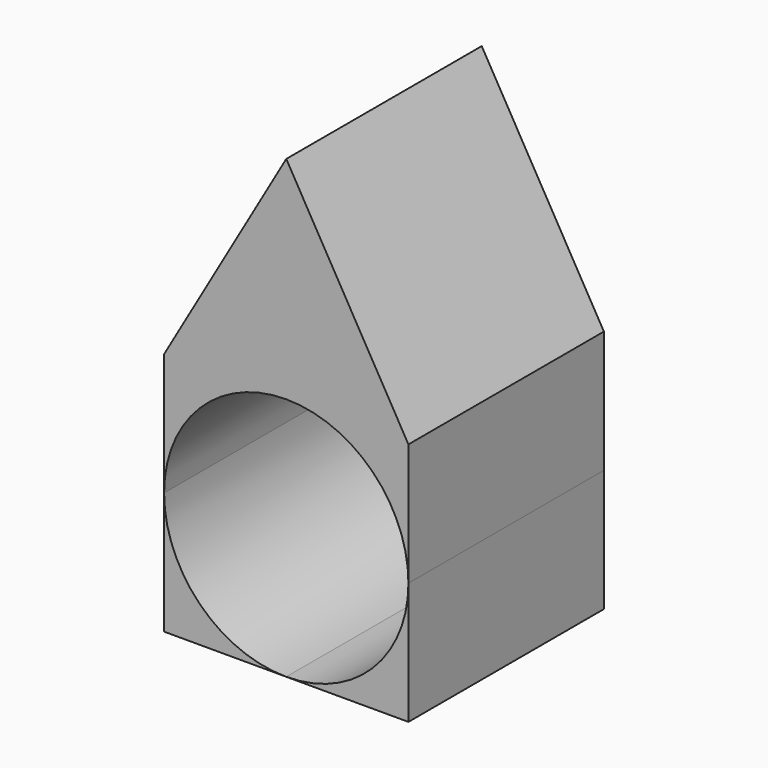
from build123d import *

# Parameters (mm, degrees)
F1_DEPTH = 79.756


with BuildPart() as f1:
    # F0 (on Front) → F1 (new body)
    with BuildSketch(Plane.XZ):
        with BuildLine():
            ThreePointArc((-39.878, -1.724e-07), (-28.1980042811, 28.1980041592), (0, 39.878))
            Line((0, 39.878), (-39.878, 39.878))
            Line((-39.878, 39.878), (-39.878, -1.724e-07))
        make_face()
        Polygon((0, 39.878), (39.878, 39.878), (0, 108.9487221042), (-39.878, 39.878), align=None)
        with BuildLine():
            Line((39.878, 0), (39.878, 39.878))
            Line((39.878, 39.878), (0, 39.878))
            ThreePointArc((0, 39.878), (28.1980042202, 28.1980042202), (39.878, 0))
        make_face()
    extrude(amount=F1_DEPTH)


with BuildPart() as f1b:
    # F0 (on Front) → F1, piece 2 (new body)
    with BuildSketch(Plane.XZ):
        with BuildLine():
            Line((39.878, -39.878), (39.878, 0))
            ThreePointArc((39.878, 0), (28.1980042534, -28.1980041869), (9.4e-08, -39.878))
            Line((9.4e-08, -39.878), (39.878, -39.878))
        make_face()
    extrude(amount=F1_DEPTH)


with BuildPart() as f1c:
    # F0 (on Front) → F1, piece 3 (new body)
    with BuildSketch(Plane.XZ):
        with BuildLine():
            ThreePointArc((9.4e-08, -39.878), (-28.198004126, -28.1980043144), (-39.878, -1.724e-07))
            Line((-39.878, -1.724e-07), (-39.878, -39.878))
            Line((-39.878, -39.878), (9.4e-08, -39.878))
        make_face()
    extrude(amount=F1_DEPTH)


solid = Compound([f1.part, f1b.part, f1c.part])
